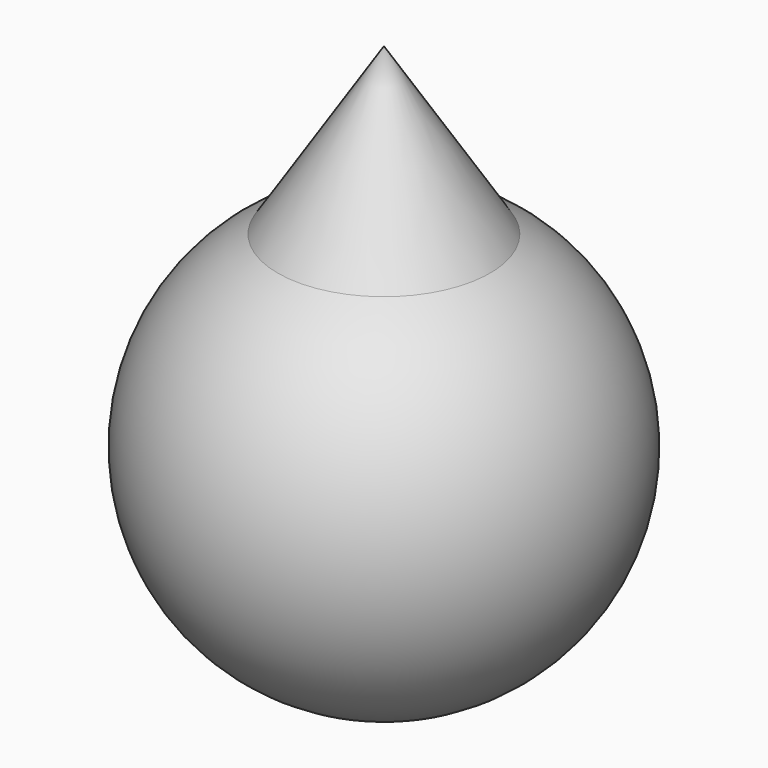
from build123d import *


with BuildPart() as f1:
    # F0 (on Front) → F1 (revolve)
    with BuildSketch(Plane.XZ):
        with BuildLine():
            ThreePointArc((-14.188631, 25.001487), (-7.337342, 27.794874), (0, 28.747028))
            Line((0, 28.747028), (0, 47.100179))
            Line((0, 47.100179), (-14.188631, 25.001487))
        make_face()
        with BuildLine():
            Line((0, 25.001487), (0, 28.747028))
            ThreePointArc((0, 28.747028), (-7.337342, 27.794874), (-14.188631, 25.001487))
            Line((-14.188631, 25.001487), (0, 25.001487))
        make_face()
        with BuildLine():
            Line((0, 25.001487), (-14.188631, 25.001487))
            ThreePointArc((-14.188631, 25.001487), (-27.794874, -7.337342), (0, -28.747028))
            Line((0, -28.747028), (0, 25.001487))
        make_face()
    revolve(axis=Axis((0, 0, 9.082938), (0, 0, -1)))


solid = f1.part
